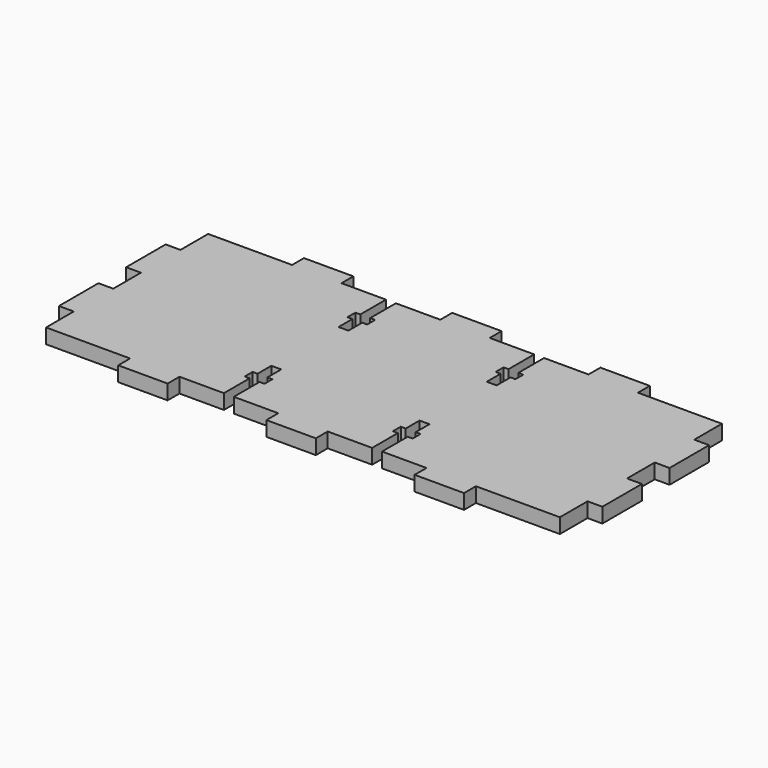
from build123d import *

# Parameters (mm, degrees)
F1_DEPTH = 3


with BuildPart() as f1:
    # F0 (on Top) → F1 (new body)
    with BuildSketch(Plane.XY):
        Polygon((-17, 0), (0, 0), (0, 7), (3, 7), (3, 17), (0, 17), (0, 24), (3, 24), (3, 34), (0, 34), (0, 41), (-17, 41), (-17, 44), (-27, 44), (-27, 41), (-36, 41), (-36, 34.5), (-35, 34.5), (-35, 32.5), (-36, 32.5), (-36, 29), (-38, 29), (-38, 32.5), (-39, 32.5), (-39, 34.5), (-38, 34.5), (-38, 41), (-47, 41), (-47, 44), (-52, 44), (-57, 44), (-57, 41), (-66, 41), (-66, 34.5), (-65, 34.5), (-65, 32.5), (-66, 32.5), (-66, 29), (-68, 29), (-68, 32.5), (-69, 32.5), (-69, 34.5), (-68, 34.5), (-68, 41), (-77, 41), (-77, 44), (-87, 44), (-87, 41), (-104, 41), (-104, 34), (-107, 34), (-107, 24), (-104, 24), (-104, 17), (-107, 17), (-107, 7), (-104, 7), (-104, 0), (-87, 0), (-87, -3), (-77, -3), (-77, 0), (-68, 0), (-68, 6.5), (-69, 6.5), (-69, 8.5), (-68, 8.5), (-68, 12), (-66, 12), (-66, 8.5), (-65, 8.5), (-65, 6.5), (-66, 6.5), (-66, 0), (-57, 0), (-57, -3), (-52, -3), (-47, -3), (-47, 0), (-38, 0), (-38, 6.5), (-39, 6.5), (-39, 8.5), (-38, 8.5), (-38, 12), (-36, 12), (-36, 8.5), (-35, 8.5), (-35, 6.5), (-36, 6.5), (-36, 0), (-27, 0), (-27, -3), (-17, -3), align=None)
    extrude(amount=F1_DEPTH)


solid = f1.part
